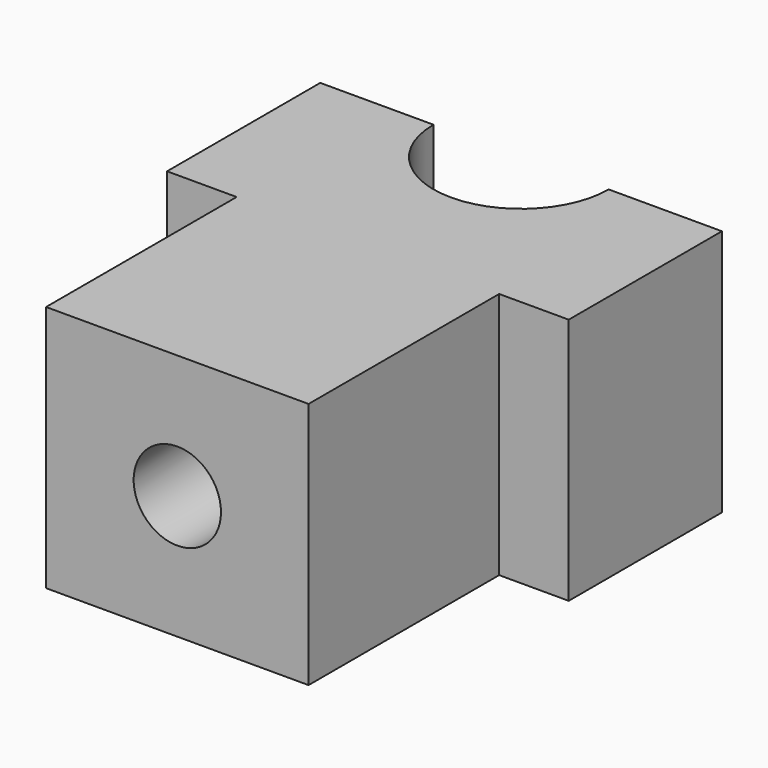
from build123d import *

# Parameters (mm, degrees)
F0_W     = 21.844
F0_H     = 13.462
F1_DEPTH = 10.414
F2_W     = 14.2748
F2_H     = 13.462
F3_DEPTH = 12.954
F4_R     = 2.3749
F5_DEPTH = 4.826
F7_D     = 2.2606
F7_DEPTH = 9.017
F7_TIP   = 0.6791527577
F9_DEPTH = 13.463


with BuildPart() as f1:
    # F0 (on Front) → F1 (new body)
    with BuildSketch(Plane.XZ):
        Rectangle(F0_W, F0_H)
    extrude(amount=F1_DEPTH)

    # F2 (on face) → F3 (join)
    with BuildSketch(Plane.XZ.offset(10.414)):
        Rectangle(F2_W, F2_H)
    extrude(amount=F3_DEPTH)

    # F4 (on face) → F5 (cut)
    with BuildSketch(Plane.XZ.offset(23.368)):
        Circle(F4_R)
    extrude(amount=-F5_DEPTH, mode=Mode.SUBTRACT)

    # F7
    with Locations(Plane(origin=(0, 0, 0), x_dir=(-1, 0, 0), z_dir=(0, 1, 0))):
        with Locations((7.1374, 0), (-7.1374, 0)):
            Hole(F7_D / 2, depth=F7_DEPTH)
            with Locations((0, 0, -(F7_DEPTH + F7_TIP / 2))):  # 118° drill point
                Cone(0, F7_D / 2, F7_TIP, mode=Mode.SUBTRACT)

    # F8 (on face) → F9 (cut, through all)
    with BuildSketch(Plane.XY.offset(6.731)):
        with BuildLine():
            ThreePointArc((-4.7625, 0), (0, -4.7625), (4.7625, 0))
            Line((4.7625, 0), (-4.7625, 0))
        make_face()
    extrude(amount=-F9_DEPTH, mode=Mode.SUBTRACT)


solid = f1.part
